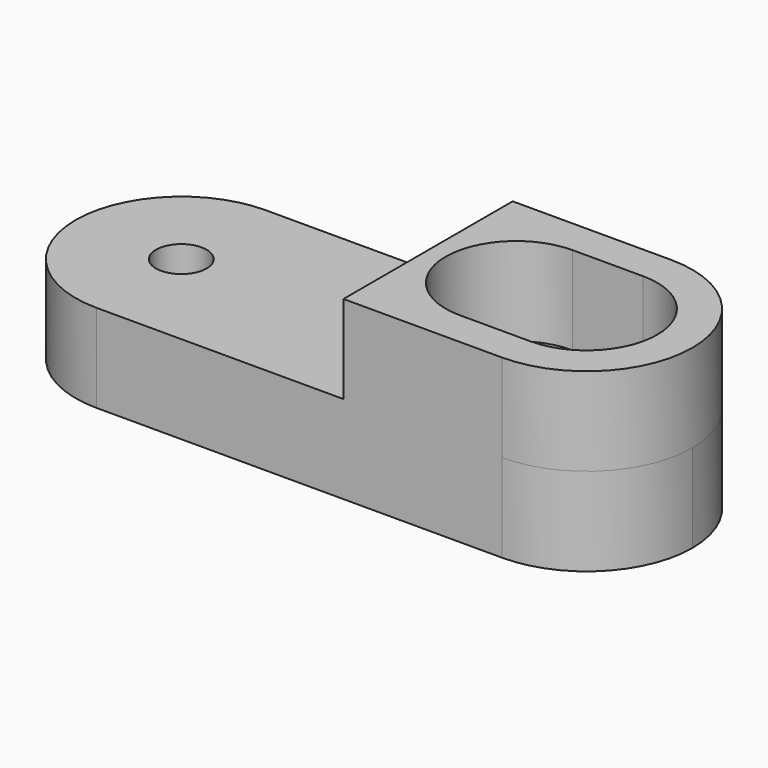
from build123d import *

# Parameters (mm, degrees)
F1_DEPTH  = 6.35
F3_D      = 3.6576
F5_DEPTH  = 6.35
F7_DEPTH  = 12.701
F9_DEPTH  = 6.35
F10_R     = 3.81
F11_DEPTH = 3.175


with BuildPart() as f1:
    # F0 (on Top) → F1 (new body)
    with BuildSketch(Plane.XY):
        with BuildLine():
            ThreePointArc((0, 7.62), (2.2318463274, 2.2318463274), (7.62, 0))
            Line((7.62, 0), (36.83, 0))
            ThreePointArc((36.83, 0), (42.2181536726, 2.2318463274), (44.45, 7.62))
            ThreePointArc((44.45, 7.62), (42.2181536726, 13.0081536726), (36.83, 15.24))
            Line((36.83, 15.24), (7.62, 15.24))
            ThreePointArc((7.62, 15.24), (2.2318463274, 13.0081536726), (0, 7.62))
        make_face()
    extrude(amount=F1_DEPTH)

    # F3 (through all)
    with Locations(Plane.XY.offset(6.35)):
        with Locations((7.62, 7.62)):
            Hole(F3_D / 2)

    # F4 (on face) → F5 (join)
    with BuildSketch(Plane.XY.offset(6.35)):
        with BuildLine():
            Line((36.83, 15.24), (25.4, 15.24))
            Line((25.4, 15.24), (25.4, 0))
            Line((25.4, 0), (36.83, 0))
            ThreePointArc((36.83, 0), (44.45, 7.62), (36.83, 15.24))
        make_face()
    extrude(amount=F5_DEPTH)

    # F6 (on face) → F7 (cut, through all)
    with BuildSketch(Plane.XY.offset(12.7)):
        with BuildLine():
            ThreePointArc((31.75, 11.43), (27.94, 7.62), (31.75, 3.81))
            Line((31.75, 3.81), (36.83, 3.81))
            ThreePointArc((36.83, 3.81), (40.64, 7.62), (36.83, 11.43))
            Line((36.83, 11.43), (31.75, 11.43))
        make_face()
    extrude(amount=-F7_DEPTH, mode=Mode.SUBTRACT)

    # F8 (on face) → F9 (cut)
    with BuildSketch(Plane.XY.offset(12.7)):
        with BuildLine():
            ThreePointArc((31.75, 12.7), (26.67, 7.62), (31.75, 2.54))
            Line((31.75, 2.54), (36.83, 2.54))
            ThreePointArc((36.83, 2.54), (41.91, 7.62), (36.83, 12.7))
            Line((36.83, 12.7), (31.75, 12.7))
        make_face()
    extrude(amount=-F9_DEPTH, mode=Mode.SUBTRACT)

    # F10 (on face) → F11 (cut)
    with BuildSketch(Plane(origin=(0, 0, 0), x_dir=(1, 0, 0), z_dir=(0, 0, -1))):
        with Locations((7.62, -7.62)):
            Circle(F10_R)
    extrude(amount=-F11_DEPTH, mode=Mode.SUBTRACT)


solid = f1.part
